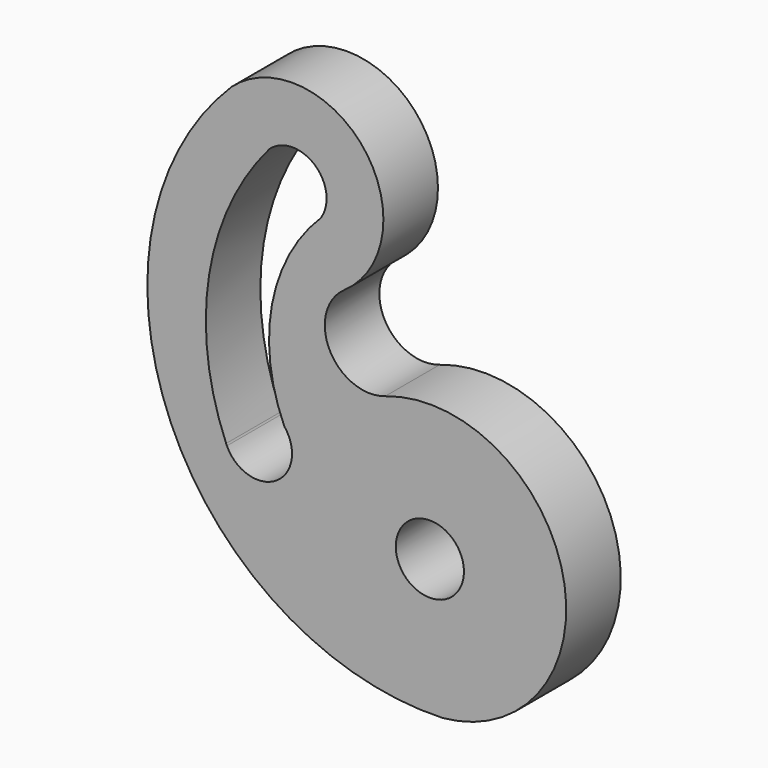
from build123d import *

# Parameters (mm, degrees)
F0_R     = 190.5
F1_DEPTH = 381


with BuildPart() as f1:
    # F0 (on Front) → F1 (new body)
    with BuildSketch(Plane.XZ):
        with BuildLine():
            ThreePointArc((-1107.629396, 1963.229076), (-1447.595209, 199.838732), (71.078038, -758.67774))
            ThreePointArc((71.078038, -758.67774), (744.665385, 161.608984), (-249.804153, 719.89019))
            ThreePointArc((-249.804153, 719.89019), (-559.486259, 844.73332), (-477.906748, 1168.513488))
            ThreePointArc((-477.906748, 1168.513488), (-369.420258, 1901.326772), (-1107.629396, 1963.229076))
        make_face()
        Circle(F0_R, mode=Mode.SUBTRACT)
        with BuildLine():
            ThreePointArc((-895.792913, 1726.725561), (-643.440941, 1730.335119), (-608.963354, 1480.323434))
            ThreePointArc((-608.963354, 1480.323434), (-882.313837, 965.749273), (-812.734217, 387.246266))
            ThreePointArc((-812.734217, 387.246266), (-790.54159, 352.8612), (-776.205235, 314.529564))
            ThreePointArc((-776.205235, 314.529564), (-897.368086, 87.707795), (-1134.062508, 188.227953))
            ThreePointArc((-1134.062508, 188.227953), (-1136.31975, 193.371275), (-1138.424378, 198.578909))
            ThreePointArc((-1138.424378, 198.578909), (-1233.708554, 997.042883), (-895.792913, 1726.725561))
        make_face(mode=Mode.SUBTRACT)
    extrude(amount=F1_DEPTH)


solid = f1.part
